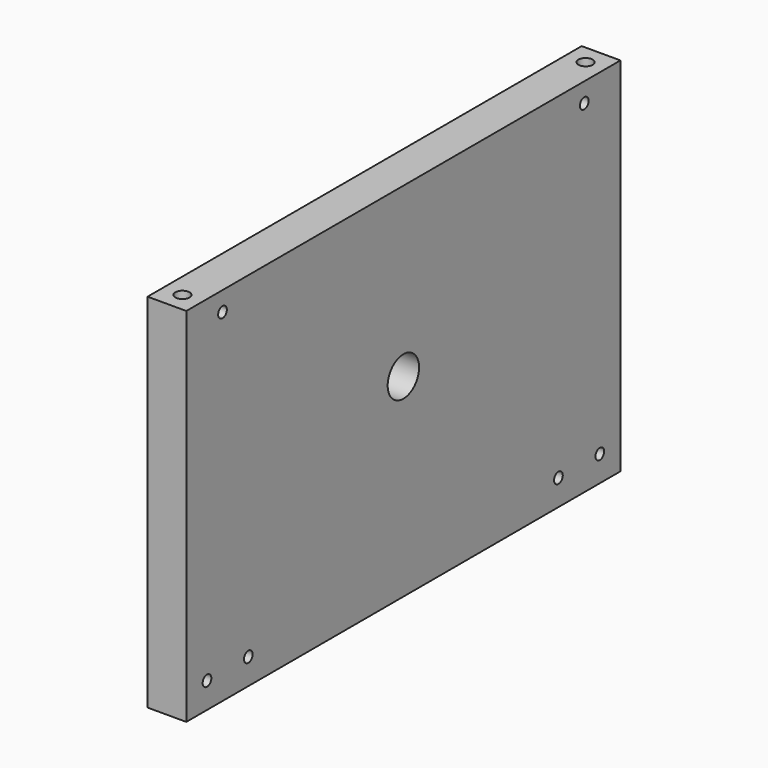
from build123d import *

# Parameters (mm, degrees)
SKETCH024_W         = 210
SKETCH024_H         = 140
PAD014_DEPTH        = 15
SKETCH025_R         = 7.6
POCKET006_DEPTH     = 35
HOLE004_D           = 4.2
HOLE004_DEPTH       = 25
HOLE004_CSINK_D     = 11.2
HOLE004_CSINK_ANGLE = 90
SKETCH029_R         = 2.75
HOLE007_DEPTH       = 40
HOLE007_TIPS_R      = 2.75


with BuildPart() as part:
    # Sketch024 → Pad014 (new body)
    with BuildSketch(Plane.YZ):
        with Locations((0, -5)):
            Rectangle(SKETCH024_W, SKETCH024_H)
    extrude(amount=-PAD014_DEPTH)

    # Sketch025 → Pocket006 (cut)
    with BuildSketch(Plane.YZ):
        Circle(SKETCH025_R)
    extrude(amount=-POCKET006_DEPTH, mode=Mode.SUBTRACT)

    # Hole004
    with Locations(Plane(origin=(-15, 0, 0), x_dir=(0, 1, 0), z_dir=(-1, 0, 0))):
        with Locations((-95, 65), (-75, 65), (95, 65), (75, 65), (-87.5, -57.5), (87.5, -57.5)):
            CounterSinkHole(HOLE004_D / 2, HOLE004_CSINK_D / 2, depth=HOLE004_DEPTH, counter_sink_angle=HOLE004_CSINK_ANGLE)

    # Sketch029 → Hole007 (cut)
    with BuildSketch(Plane.XY.offset(65)):
        with Locations((-7.5, -97.5)):
            Circle(SKETCH029_R)
        with Locations((-7.5, 97.5)):
            Circle(SKETCH029_R)
    extrude(amount=-HOLE007_DEPTH, mode=Mode.SUBTRACT)

    # Hole007 tips → Hole007 tip 1 section 0
    with BuildSketch(Plane.XY.offset(25), mode=Mode.PRIVATE) as hole007_tip_1_s0:
        with Locations((-7.5, -97.5)):
            Circle(HOLE007_TIPS_R)
    loft([hole007_tip_1_s0.sketch, Vertex(-7.5, -97.5, 23.347633)], mode=Mode.SUBTRACT)

    # Hole007 tips → Hole007 tip 2 section 0
    with BuildSketch(Plane.XY.offset(25), mode=Mode.PRIVATE) as hole007_tip_2_s0:
        with Locations((-7.5, 97.5)):
            Circle(HOLE007_TIPS_R)
    loft([hole007_tip_2_s0.sketch, Vertex(-7.5, 97.5, 23.347633)], mode=Mode.SUBTRACT)


solid = part.part
